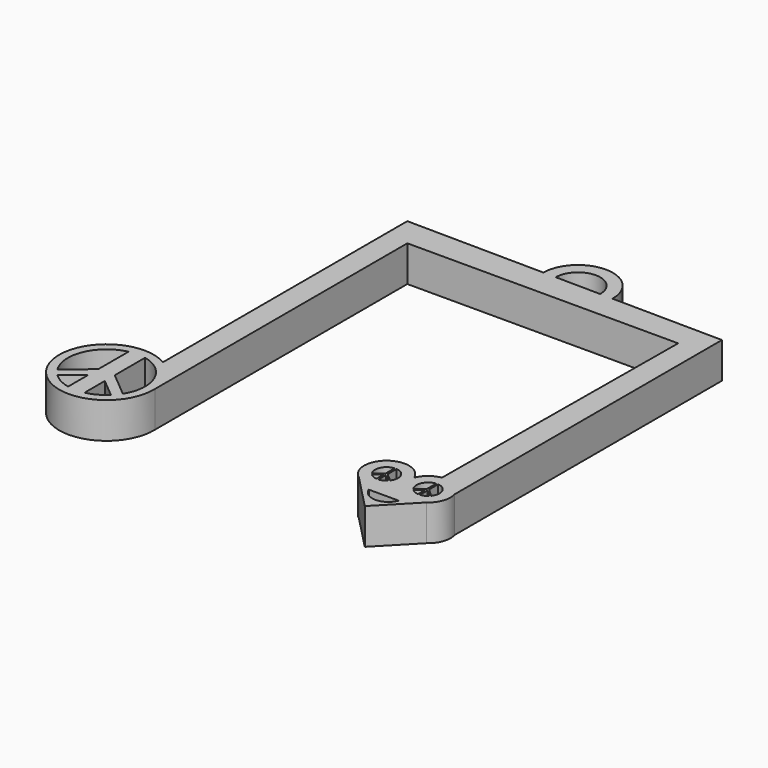
from build123d import *

# Parameters (mm, degrees)
F1_DEPTH = 9.144


with BuildPart() as f1:
    # F0 (on Top) → F1 (new body)
    with BuildSketch(Plane.XY):
        with BuildLine():
            Line((26.232975, -53.528168), (34.841218, -44.634543))
            ThreePointArc((34.841218, -44.634543), (36.919466, -41.859873), (37.011544, -38.394412))
            Line((37.011544, -38.394412), (37.011544, -23.138775))
            Line((37.011544, -23.138775), (37.011544, 46.751468))
            Line((37.011544, 46.751468), (8.889462, 47.060993))
            ThreePointArc((8.889462, 47.060993), (0.097842, 56.048297), (-8.889462, 47.256677))
            Line((-8.889462, 47.256677), (-43.862213, 47.641603))
            Line((-43.862213, 47.641603), (-43.862213, -30.166319))
            ThreePointArc((-43.862213, -30.166319), (-60.287374, -46.719226), (-37.899839, -40.193666))
            Line((-37.899839, -40.193666), (-37.899839, 40.192322))
            Line((-37.899839, 40.192322), (31.105572, 40.192322))
            Line((31.105572, 40.192322), (30.562247, -34.348597))
            ThreePointArc((30.562247, -34.348597), (27.948657, -35.522102), (26.232975, -37.816531))
            ThreePointArc((26.232975, -37.816531), (17.395999, -35.502474), (17.624733, -44.634543))
            Line((17.624733, -44.634543), (26.232975, -53.528168))
        make_face()
        with BuildLine():
            Line((-52.031719, -43.74671), (-52.031719, -50.194425))
            ThreePointArc((-52.031719, -50.194425), (-54.56503, -49.26521), (-56.75136, -47.683736))
            Line((-56.75136, -47.683736), (-52.031719, -43.74671))
        make_face(mode=Mode.SUBTRACT)
        with BuildLine():
            ThreePointArc((-43.121746, -47.683736), (-45.308076, -49.26521), (-47.841386, -50.194425))
            Line((-47.841386, -50.194425), (-47.841386, -43.74671))
            Line((-47.841386, -43.74671), (-43.121746, -47.683736))
        make_face(mode=Mode.SUBTRACT)
        with BuildLine():
            Line((-52.031719, -30.934597), (-52.031719, -40.564511))
            Line((-52.031719, -40.564511), (-58.280842, -45.808346))
            ThreePointArc((-58.280842, -45.808346), (-59.022402, -36.747142), (-52.031719, -30.934597))
        make_face(mode=Mode.SUBTRACT)
        with BuildLine():
            Line((-41.59198, -45.807894), (-47.841386, -40.564511))
            Line((-47.841386, -40.564511), (-47.841386, -30.934597))
            ThreePointArc((-47.841386, -30.934597), (-40.850807, -36.746896), (-41.59198, -45.807894))
        make_face(mode=Mode.SUBTRACT)
        with BuildLine():
            Line((18.88916, -42.058198), (20.690326, -40.490497))
            Line((20.690326, -40.490497), (20.690326, -42.892432))
            ThreePointArc((20.690326, -42.892432), (19.716707, -42.633005), (18.88916, -42.058198))
        make_face(mode=Mode.SUBTRACT)
        with BuildLine():
            Line((21.198326, -42.892432), (21.198326, -40.490497))
            Line((21.198326, -40.490497), (23.02938, -42.028172))
            ThreePointArc((23.02938, -42.028172), (22.191134, -42.624032), (21.198326, -42.892432))
        make_face(mode=Mode.SUBTRACT)
        with BuildLine():
            Line((22.422975, -47.479119), (26.232975, -47.479119))
            Line((26.232975, -47.479119), (30.042975, -47.479119))
            ThreePointArc((30.042975, -47.479119), (26.232975, -50.106314), (22.422975, -47.479119))
        make_face(mode=Mode.SUBTRACT)
        with BuildLine():
            Line((29.510517, -42.100913), (31.267625, -40.490497))
            Line((31.267625, -40.490497), (31.267625, -42.892432))
            ThreePointArc((31.267625, -42.892432), (30.321915, -42.645753), (29.510517, -42.100913))
        make_face(mode=Mode.SUBTRACT)
        with BuildLine():
            ThreePointArc((33.532733, -42.100913), (32.721335, -42.645753), (31.775625, -42.892432))
            Line((31.775625, -42.892432), (31.775625, -40.490497))
            Line((31.775625, -40.490497), (33.532733, -42.100913))
        make_face(mode=Mode.SUBTRACT)
        with BuildLine():
            ThreePointArc((18.605909, -41.732939), (18.277879, -38.789893), (20.690326, -37.072561))
            Line((20.690326, -37.072561), (20.690326, -39.982497))
            Line((20.690326, -39.982497), (18.605909, -41.732939))
        make_face(mode=Mode.SUBTRACT)
        with BuildLine():
            ThreePointArc((21.198326, -37.072561), (23.610772, -38.789893), (23.282742, -41.732939))
            Line((23.282742, -41.732939), (21.198326, -39.982497))
            Line((21.198326, -39.982497), (21.198326, -37.072561))
        make_face(mode=Mode.SUBTRACT)
        with BuildLine():
            ThreePointArc((29.255999, -41.826183), (28.831577, -38.844128), (31.267625, -37.072561))
            Line((31.267625, -37.072561), (31.267625, -39.982497))
            Line((31.267625, -39.982497), (29.255999, -41.826183))
        make_face(mode=Mode.SUBTRACT)
        with BuildLine():
            Line((31.775625, -39.982497), (31.775625, -37.072561))
            ThreePointArc((31.775625, -37.072561), (34.211673, -38.844128), (33.787252, -41.826183))
            Line((33.787252, -41.826183), (31.775625, -39.982497))
        make_face(mode=Mode.SUBTRACT)
        with BuildLine():
            ThreePointArc((-5.714654, 47.221733), (0.062898, 52.873489), (5.714654, 47.095937))
            Line((5.714654, 47.095937), (-5.714654, 47.221733))
        make_face(mode=Mode.SUBTRACT)
    extrude(amount=F1_DEPTH)


solid = f1.part
